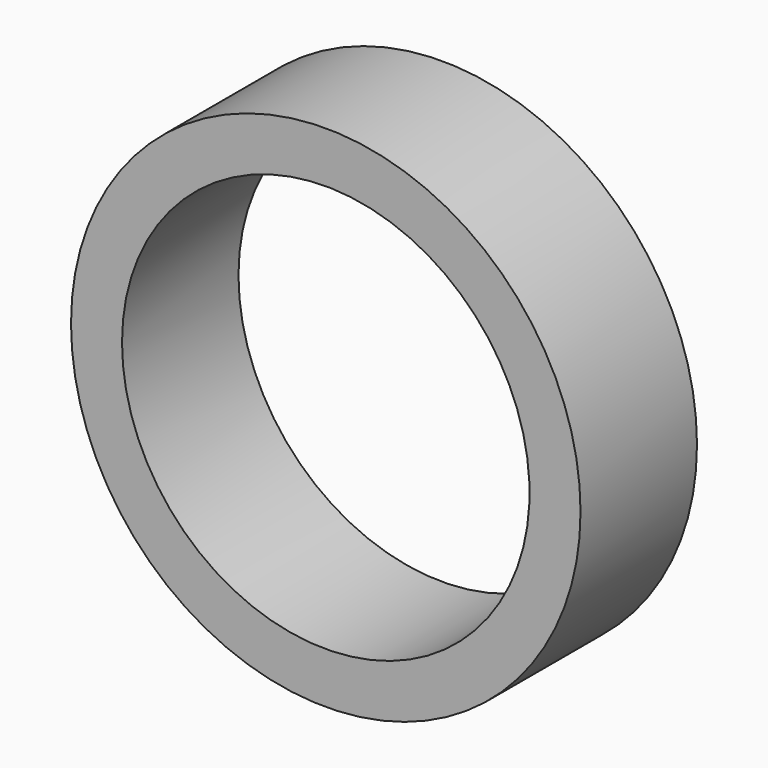
from build123d import *

# Parameters (mm, degrees)
F1_DEPTH = 25.4


with BuildPart() as f1:
    # F0 (on Front) → F1 (new body)
    with BuildSketch(Plane.XZ):
        with BuildLine():
            ThreePointArc((-44.45, 0), (0, -44.45), (44.45, 0))
            ThreePointArc((44.45, 0), (0, 44.45), (-44.45, 0))
        make_face()
        with BuildLine():
            ThreePointArc((35.55, 0), (0, -35.55), (-35.55, 0))
            ThreePointArc((-35.55, 0), (0, 35.55), (35.55, 0))
        make_face(mode=Mode.SUBTRACT)
    extrude(amount=F1_DEPTH)


solid = f1.part
